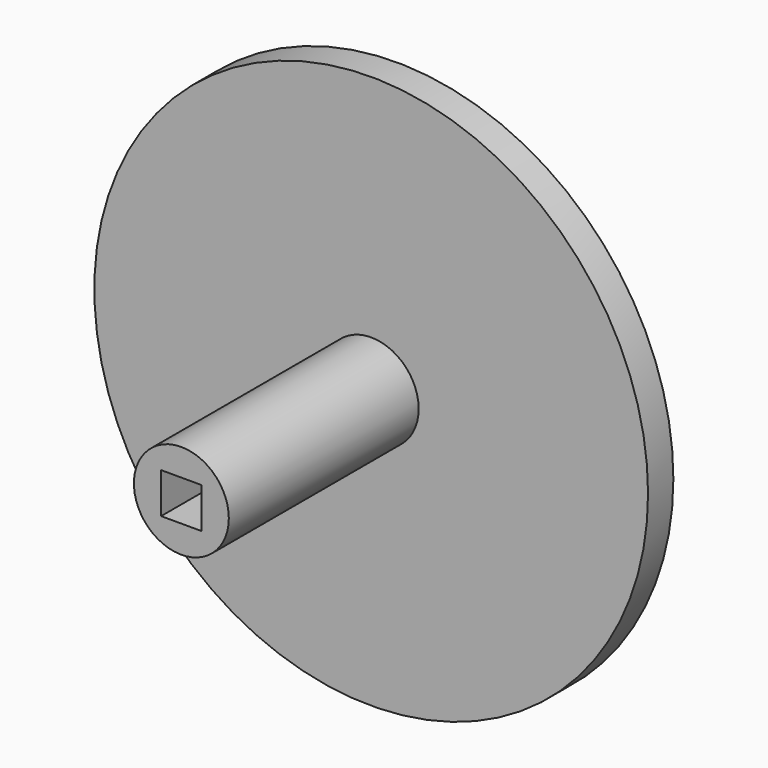
from build123d import *

# Parameters (mm, degrees)
F0_R     = 22.225
F1_DEPTH = 2.54
F2_R     = 3.81
F2_W     = 3.2512
F2_H     = 3.2512
F3_DEPTH = 19.05


with BuildPart() as f1:
    # F0 (on Front) → F1 (new body)
    with BuildSketch(Plane.XZ):
        with Locations((-29.829953, 27.933979)):
            Circle(F0_R)
    extrude(amount=F1_DEPTH)

    # F2 (on face) → F3 (join)
    with BuildSketch(Plane.XZ.offset(2.54)):
        with Locations((-29.829953, 27.933979)):
            Circle(F2_R)
        with Locations((-29.829953, 27.952339)):
            Rectangle(F2_W, F2_H, mode=Mode.SUBTRACT)
    extrude(amount=F3_DEPTH)


solid = f1.part
